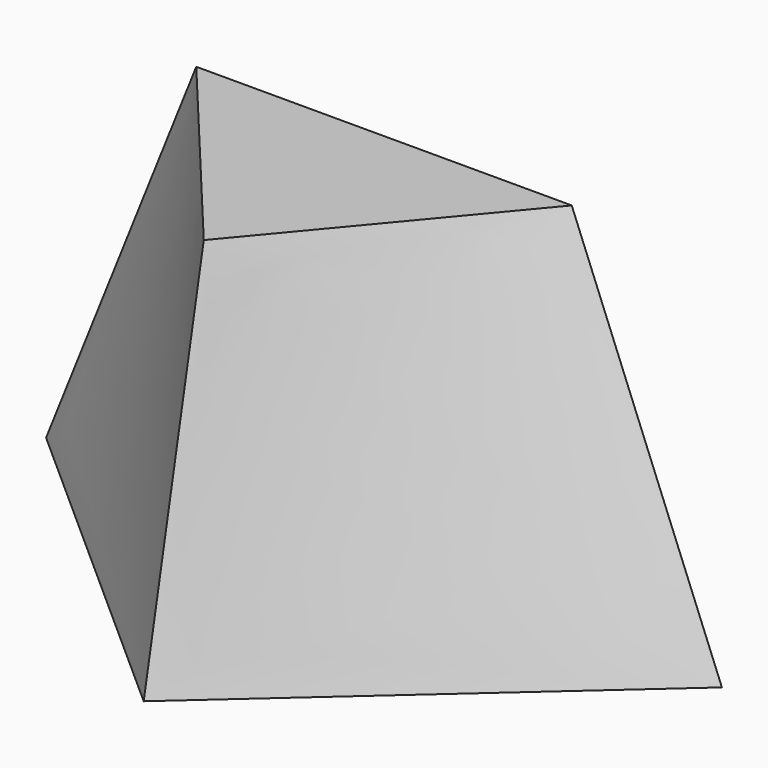
from build123d import *


with BuildPart() as f3:
    # F0 (on Top) → F3 section 0
    with BuildSketch(Plane.XY):
        Polygon((15.875, 0), (-15.875, 0), (0, -19.05), align=None)
    # F2 (on offset) → F3 section 1
    with BuildSketch(Plane.XY.offset(-31.75)):
        Polygon((28.575, 0), (-28.575, 0), (0, -25.4), align=None)
    loft()


solid = f3.part
